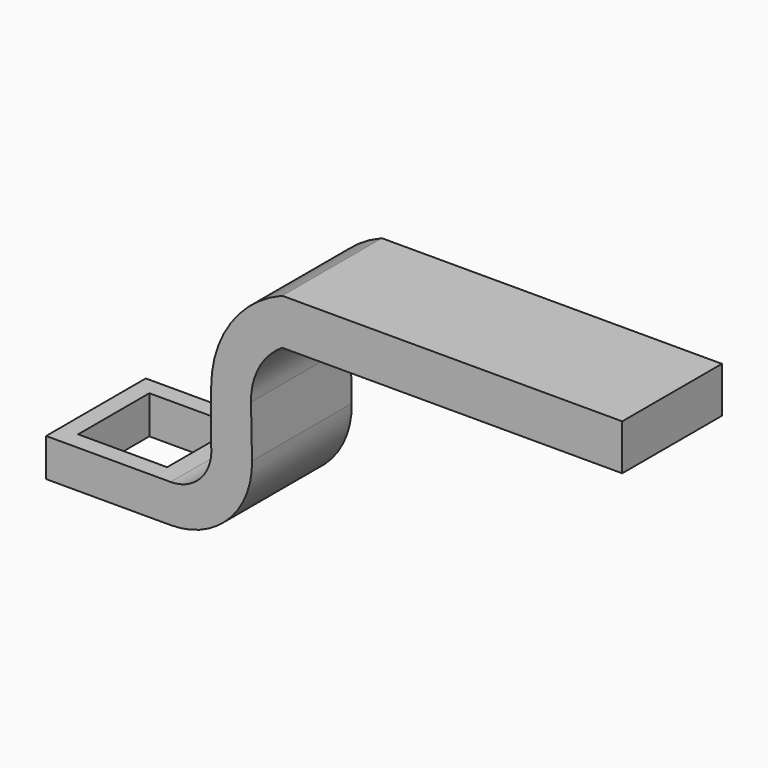
from build123d import *

# Parameters (mm, degrees)
F1_DEPTH = 140
F2_W     = 100
F2_H     = 100
F3_DEPTH = 42.688527


with BuildPart() as f1:
    # F0 (on Front) → F1 (new body)
    with BuildSketch(Plane.XZ):
        with BuildLine():
            Line((0, 42.688527), (-140, 42.688527))
            Line((-140, 42.688527), (-140, 0))
            Line((-140, 0), (0, 0))
            ThreePointArc((0, 0), (65.242534, 27.405396), (91.344284, 93.180335))
            Line((91.344284, 93.180335), (90.195123, 150.920451))
            ThreePointArc((90.195123, 150.920451), (99.185103, 188.167978), (125.311481, 216.19672))
            Line((125.311481, 216.19672), (507.213149, 216.19672))
            Line((507.213149, 216.19672), (507.213149, 267.606571))
            Line((507.213149, 267.606571), (125.311481, 267.606571))
            ThreePointArc((125.311481, 267.606571), (67.324648, 221.678099), (45.442634, 151.016406))
            Line((45.442634, 151.016406), (45.442634, 93.180335))
            ThreePointArc((45.442634, 93.180335), (33.964893, 57.815211), (0, 42.688527))
        make_face()
    extrude(amount=F1_DEPTH)

    # F2 (on face) → F3 (cut, through all)
    with BuildSketch(Plane.XY.offset(42.688527)):
        with Locations((-70, -70)):
            Rectangle(F2_W, F2_H)
    extrude(amount=-F3_DEPTH, mode=Mode.SUBTRACT)


solid = f1.part
